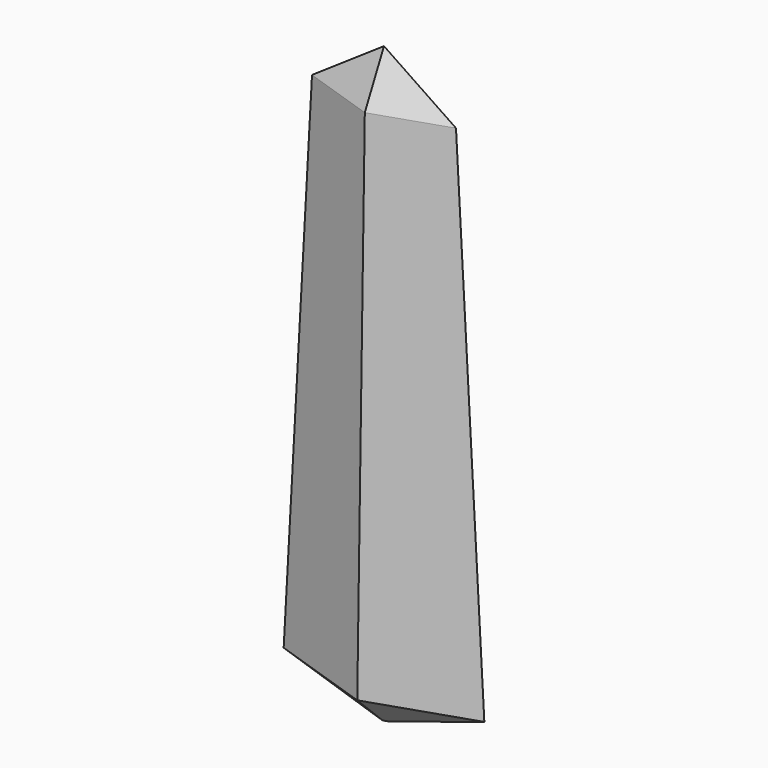
from build123d import *

# Parameters (mm, degrees)
F1_DEPTH = 203.2
F1_TAPER = 1
F2_DEPTH = 25.4
F2_TAPER = 25
F3_SIZE  = 11.43


with BuildPart() as f1:
    # F0 (on Top) → F1 (new body)
    with BuildSketch(Plane.XY):
        Polygon((0, 12.7), (-38.1, 0), (0, -12.7), (38.1, 0), align=None)
    extrude(amount=F1_DEPTH, taper=F1_TAPER)

    # F1_face (on face) → F2 (join)
    with BuildSketch(Plane.XY.offset(203.2)):
        Polygon((0, 8.9612715954), (-26.8838147861, 0), (0, -8.9612715954), (26.8838147861, 0), align=None)
    extrude(amount=F2_DEPTH, taper=F2_TAPER)

    # F3
    f3_edges = [f1.edges().sort_by_distance(p)[0] for p in [
        (-19.05, 6.35, 0),
        (19.05, 6.35, 0),
        (19.05, -6.35, 0),
        (-19.05, -6.35, 0),
    ]]
    chamfer(f3_edges, length=F3_SIZE)


solid = f1.part
